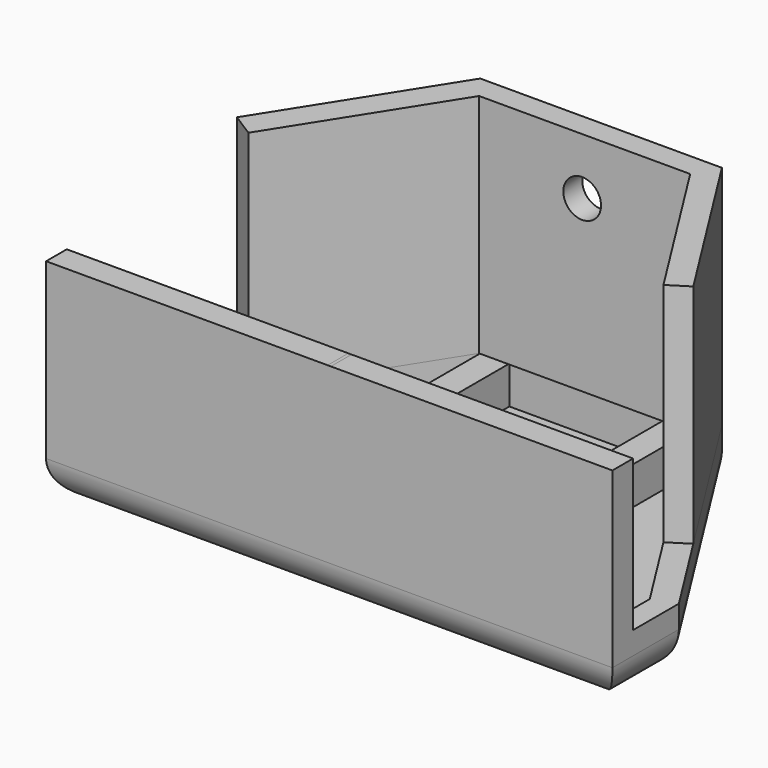
from build123d import *

# Parameters (mm, degrees)
F1_DEPTH  = 8
F3_DEPTH  = 5
F4_W      = 3.773983
F4_H      = 38.603006
F4_W_2    = 3.682556
F5_DEPTH  = 5
F6_W      = 75
F6_H      = 3.42278
F7_DEPTH  = 20
F8_W      = 32
F8_H      = 3.133789
F9_DEPTH  = 30
F11_DEPTH = 30
F13_DEPTH = 30
F14_R     = 5
F16_D     = 5


with BuildPart() as f1:
    # F0 (on Top) → F1 (new body)
    with BuildSketch(Plane.XY):
        Polygon((-37.5, -22.5), (37.5, -22.5), (37.5, -11.5), (16, 22.5), (-16, 22.5), (-37.5, -11.5), align=None)
    extrude(amount=F1_DEPTH)

    # F2 (on face) → F3 (cut)
    with BuildSketch(Plane.XY.offset(8)):
        Polygon((-13.546915, 19.525786), (-33.847345, -12.57722), (-33.847345, -19.07722), (34.50483, -19.07722), (34.50483, -12.57722), (14.2044, 19.525786), align=None)
    extrude(amount=-F3_DEPTH, mode=Mode.SUBTRACT)

    # F4 (on face) → F5 (join)
    with BuildSketch(Plane.XY.offset(3)):
        with Locations((-11.659923, 0.224283)):
            Rectangle(F4_W, F4_H)
        with Locations((12.46403, 0.224283)):
            Rectangle(F4_W_2, F4_H)
    extrude(amount=F5_DEPTH)

    # F6 (on face) → F7 (join)
    with BuildSketch(Plane.XY.offset(8)):
        with Locations((0, -20.78861)):
            Rectangle(F6_W, F6_H)
    extrude(amount=F7_DEPTH)

    # F8 (on face) → F9 (join)
    with BuildSketch(Plane.XY.offset(8)):
        with Locations((0, 20.933105)):
            Rectangle(F8_W, F8_H)
    extrude(amount=F9_DEPTH)

    # F10 (on face) → F11 (join)
    with BuildSketch(Plane.XY.offset(8)):
        Polygon((-13.647822, 19.366211), (-16, 22.5), (-30.227941, 0), (-27.132055, -1.957692), align=None)
    extrude(amount=F11_DEPTH)

    # F12 (on face) → F13 (join)
    with BuildSketch(Plane.XY.offset(8)):
        Polygon((16, 22.5), (14.305308, 19.366211), (27.666821, -1.763624), (30.293031, -0.102933), align=None)
    extrude(amount=F13_DEPTH)

    # F14
    f14_edges = [f1.edges().sort_by_distance(p)[0] for p in [
        (0, -22.5, 0),
        (-37.5, -17, 0),
        (37.5, -17, 0),
        (26.75, 5.5, 0),
        (0, 22.5, 0),
        (-26.75, 5.5, 0),
    ]]
    fillet(f14_edges, radius=F14_R)

    # F16 (through all)
    with Locations(Plane(origin=(0, 22.5, 0), x_dir=(-1, 0, 0), z_dir=(0, 1, 0))):
        with Locations((0, 30.490936)):
            Hole(F16_D / 2)


solid = f1.part
